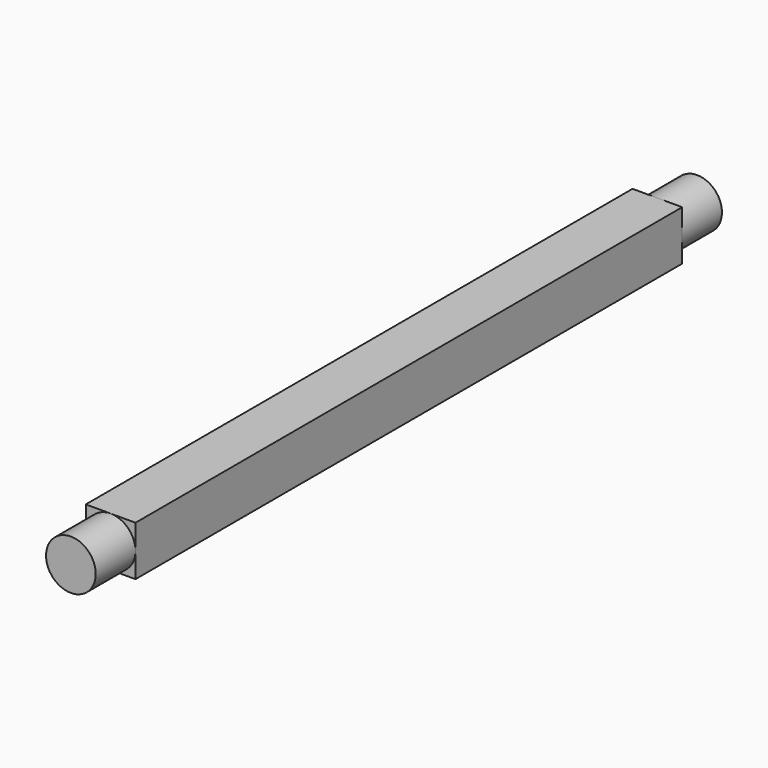
from build123d import *

# Parameters (mm, degrees)
F0_W     = 4
F0_H     = 4
F1_DEPTH = 55
F2_R     = 2
F3_DEPTH = 4
F4_R     = 2
F5_DEPTH = 4


with BuildPart() as f1:
    # F0 (on Front) → F1 (new body)
    with BuildSketch(Plane.XZ):
        Rectangle(F0_W, F0_H)
    extrude(amount=F1_DEPTH)

    # F2 (on face) → F3 (join)
    with BuildSketch(Plane(origin=(0, 0, 0), x_dir=(-1, 0, 0), z_dir=(0, 1, 0))):
        Circle(F2_R)
    extrude(amount=F3_DEPTH)

    # F4 (on face) → F5 (join)
    with BuildSketch(Plane.XZ.offset(55)):
        Circle(F4_R)
    extrude(amount=F5_DEPTH)


solid = f1.part
